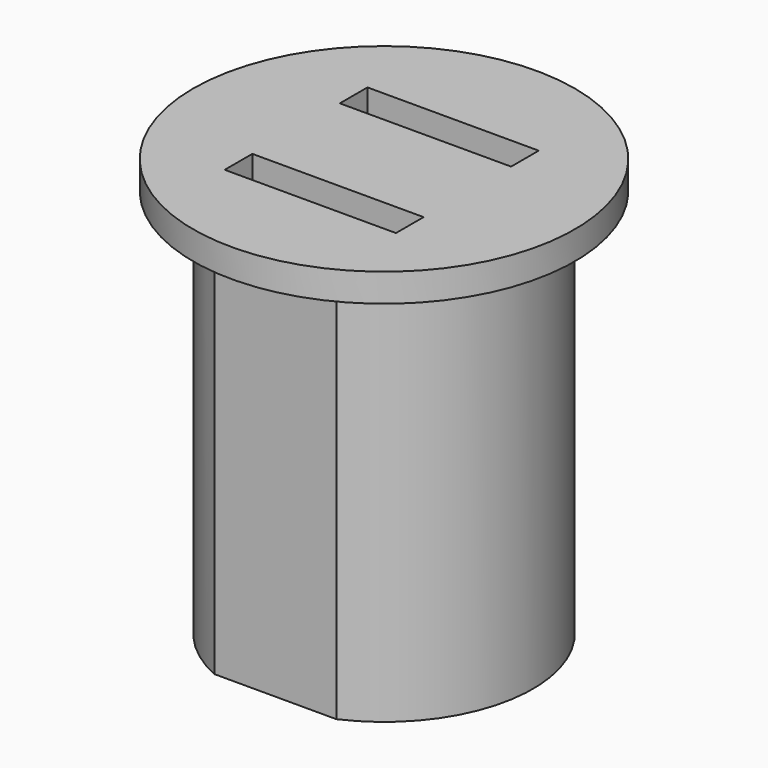
from build123d import *

# Parameters (mm, degrees)
F2_W     = 16.383304
F2_H     = 3.304196
F3_DEPTH = 10
F5_DEPTH = 37.3


with BuildPart() as f1:
    # F0 (on Front) → F1 (revolve)
    with BuildSketch(Plane.XZ):
        Polygon((0, -37.3), (0, 2.7), (-18.25, 2.7), (-18.25, 0), (-14.25, 0), (-14.25, -37.3), align=None)
    revolve(axis=Axis((0, 0, -17.3), (0, 0, 1)))

    # F2 (on face) → F3 (cut)
    with BuildSketch(Plane.XY.offset(2.7)):
        with Locations((0, 6.608392)):
            Rectangle(F2_W, F2_H)
        with Locations((0, -7.159091)):
            Rectangle(F2_W, F2_H)
    extrude(amount=-F3_DEPTH, mode=Mode.SUBTRACT)

    # F4 (on face) → F5 (cut, through all)
    with BuildSketch(Plane(origin=(0, 0, -37.3), x_dir=(1, 0, 0), z_dir=(0, 0, -1))):
        with BuildLine():
            ThreePointArc((5.836309, 13), (0, 14.25), (-5.836309, 13))
            Line((-5.836309, 13), (5.836309, 13))
        make_face()
        with BuildLine():
            Line((5.836309, -13), (-5.836309, -13))
            ThreePointArc((-5.836309, -13), (0, -14.25), (5.836309, -13))
        make_face()
    extrude(amount=-F5_DEPTH, mode=Mode.SUBTRACT)


solid = f1.part
